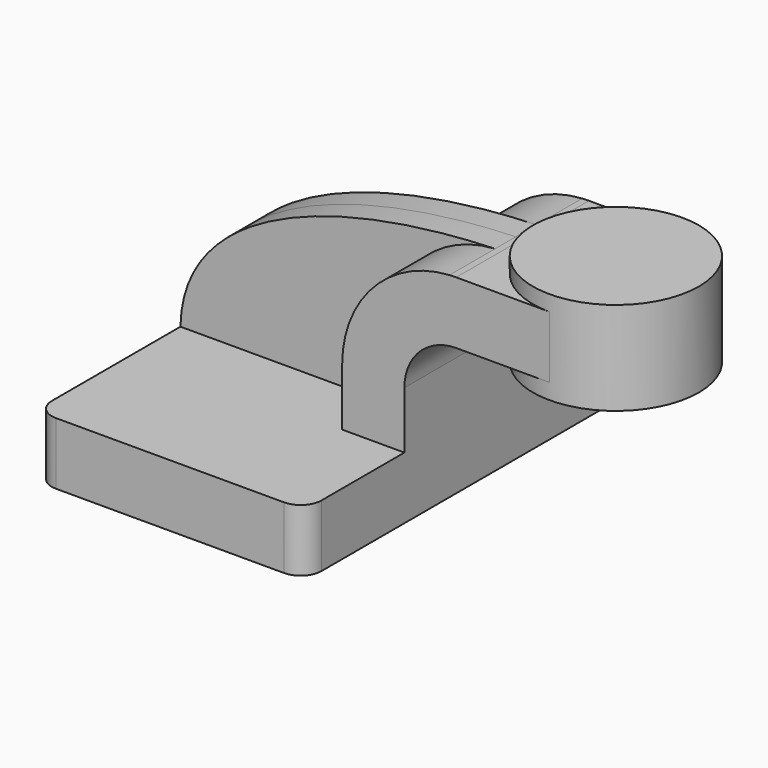
from build123d import *

# Parameters (mm, degrees)
F1_DEPTH = 63.5
F2_DEPTH = 7.9375
F0_W     = 25.4
F0_H     = 19.05
F3_DEPTH = 25.4
F5_R     = 6.35


with BuildPart() as f1:
    # F0 (on Front) → F1 (new body, symmetric)
    with BuildSketch(Plane.XZ):
        Polygon((-41.275, -9.525), (41.275, -9.525), (41.275, 9.525), (22.225, 9.525), (-41.275, 9.525), align=None)
    extrude(amount=F1_DEPTH, both=True)

    # F0 (on Front) → F2 (join, symmetric)
    with BuildSketch(Plane.XZ):
        with BuildLine():
            add(Edge.make_bspline(
                [(-41.275, 9.525), (-40.6536376941, 44.0692058558), (5.3086092688, 60.1907536905), (55.0853842739, 61.8641209915)],
                knots=[0, 0, 0, 0, 109.9854236751, 109.9854236751, 109.9854236751, 109.9854236751], degree=3))
            Line((-41.275, 9.525), (22.225, 9.525))
            Line((22.225, 9.525), (22.225, 27.0002))
            ThreePointArc((22.225, 27.0002), (31.7348241278, 50.9548333803), (55.0853842739, 61.8641209915))
        make_face()
    extrude(amount=F2_DEPTH, both=True)

    # F0 (on Front) → F3 (join, symmetric)
    with BuildSketch(Plane.XZ):
        with BuildLine():
            Line((22.225, 9.525), (41.275, 9.525))
            Line((41.275, 9.525), (41.275, 27.0002))
            ThreePointArc((41.275, 27.0002), (45.9246798487, 38.2255201513), (57.15, 42.8752))
            Line((57.15, 42.8752), (60.325, 42.8752))
            Line((60.325, 42.8752), (60.325, 61.9252))
            Line((60.325, 61.9252), (57.15, 61.9252))
            add(Edge.make_bspline(
                [(55.0853842739, 61.8641209915), (55.7728982919, 61.8872334466), (56.4611400065, 61.9075896253), (57.15, 61.9252)],
                knots=[109.9854236751, 109.9854236751, 109.9854236751, 109.9854236751, 111.5045361635, 111.5045361635, 111.5045361635, 111.5045361635], degree=3))
            ThreePointArc((55.0853842739, 61.8641209915), (31.7348241278, 50.9548333803), (22.225, 27.0002))
            Line((22.225, 27.0002), (22.225, 9.525))
        make_face()
        with Locations((73.025, 52.4002)):
            Rectangle(F0_W, F0_H)
        with Locations((73.025, 52.4002)):
            Rectangle(F0_W, F0_H)
    extrude(amount=F3_DEPTH, both=True)

    # F0 (on Front) → F4 (revolve)
    with BuildSketch(Plane.XZ):
        Polygon((85.725, 61.9252), (85.725, 42.8752), (85.725, 38.1), (111.125, 38.1), (111.125, 66.675), (85.725, 66.675), align=None)
    revolve(axis=Axis((85.725, 0, 52.3875), (0, 0, -1)))

    # F5
    f5_edges = [f1.edges().sort_by_distance(p)[0] for p in [
        (-41.275, -63.5, 0),
        (41.275, -63.5, 0),
        (41.275, 63.5, 0),
        (-41.275, 63.5, 0),
    ]]
    fillet(f5_edges, radius=F5_R)


solid = f1.part
